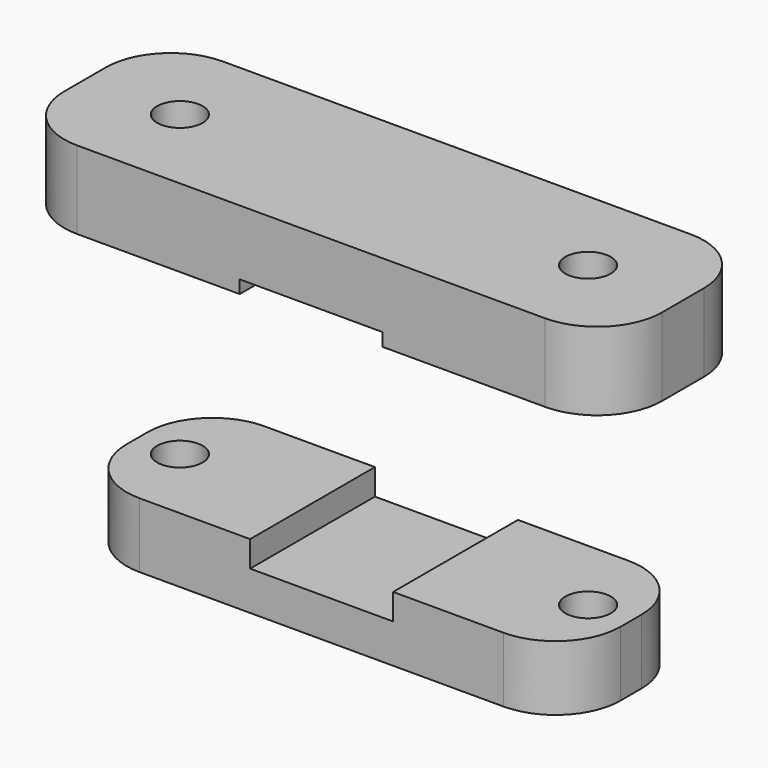
from build123d import *

# Parameters (mm, degrees)
F0_W     = 13.5
F0_H     = 12
F0_R     = 1.75
F0_W_2   = 11
F1_DEPTH = 3
F2_DEPTH = 2
F4_R     = 1.75
F4_W     = 11
F4_H     = 7
F5_DEPTH = 2
F6_DEPTH = 6
F7_DEPTH = 5
F8_R     = 5
F8_2_R   = 5


with BuildPart() as f1:
    # F0 (on Top) → F1 (new body)
    with BuildSketch(Plane.XY):
        with Locations((-12.25, 0)):
            Rectangle(F0_W, F0_H)
        with Locations((-15.7, 0)):
            Circle(F0_R, mode=Mode.SUBTRACT)
        Rectangle(F0_W_2, F0_H)
        with Locations((12.25, 0)):
            Rectangle(F0_W, F0_H)
        with Locations((15.7, 0)):
            Circle(F0_R, mode=Mode.SUBTRACT)
    extrude(amount=-F1_DEPTH)

    # F0 (on Top) → F2 (join)
    with BuildSketch(Plane.XY):
        with Locations((-12.25, 0)):
            Rectangle(F0_W, F0_H)
        with Locations((-15.7, 0)):
            Circle(F0_R, mode=Mode.SUBTRACT)
        with Locations((12.25, 0)):
            Rectangle(F0_W, F0_H)
        with Locations((15.7, 0)):
            Circle(F0_R, mode=Mode.SUBTRACT)
    extrude(amount=F2_DEPTH)

    # F8
    f8_edges = [f1.edges().sort_by_distance(p)[0] for p in [
        (-19, -6, -0.5),
        (-19, 6, -0.5),
        (19, -6, -0.5),
        (19, 6, -0.5),
    ]]
    fillet(f8_edges, radius=F8_R)


with BuildPart() as f5:
    # F4 (on offset) → F5 (new body)
    with BuildSketch(Plane.XY.offset(25)):
        Polygon((-5.5, 7), (-23, 7), (-23, -7), (-5.5, -7), (-5.5, 0), align=None)
        with Locations((-15.7, 0)):
            Circle(F4_R, mode=Mode.SUBTRACT)
        with Locations((0, 3.5)):
            Rectangle(F4_W, F4_H)
        with Locations((0, -3.5)):
            Rectangle(F4_W, F4_H)
        Polygon((23, 7), (5.5, 7), (5.5, 0), (5.5, -7), (23, -7), align=None)
        with Locations((15.7, 0)):
            Circle(F4_R, mode=Mode.SUBTRACT)
    extrude(amount=-F5_DEPTH)

    # F4 (on offset) → F6 (join)
    with BuildSketch(Plane.XY.offset(25)):
        Polygon((-5.5, 7), (-23, 7), (-23, -7), (-5.5, -7), (-5.5, 0), align=None)
        with Locations((-15.7, 0)):
            Circle(F4_R, mode=Mode.SUBTRACT)
        Polygon((23, 7), (5.5, 7), (5.5, 0), (5.5, -7), (23, -7), align=None)
        with Locations((15.7, 0)):
            Circle(F4_R, mode=Mode.SUBTRACT)
    extrude(amount=-F6_DEPTH)

    # F4 (on offset) → F7 (join)
    with BuildSketch(Plane.XY.offset(25)):
        with Locations((0, -3.5)):
            Rectangle(F4_W, F4_H)
    extrude(amount=-F7_DEPTH)

    # F8#2
    f8_2_edges = [f5.edges().sort_by_distance(p)[0] for p in [
        (-23, 7, 22),
        (-23, -7, 22),
        (23, 7, 22),
        (23, -7, 22),
    ]]
    fillet(f8_2_edges, radius=F8_2_R)


solid = Compound([f1.part, f5.part])
